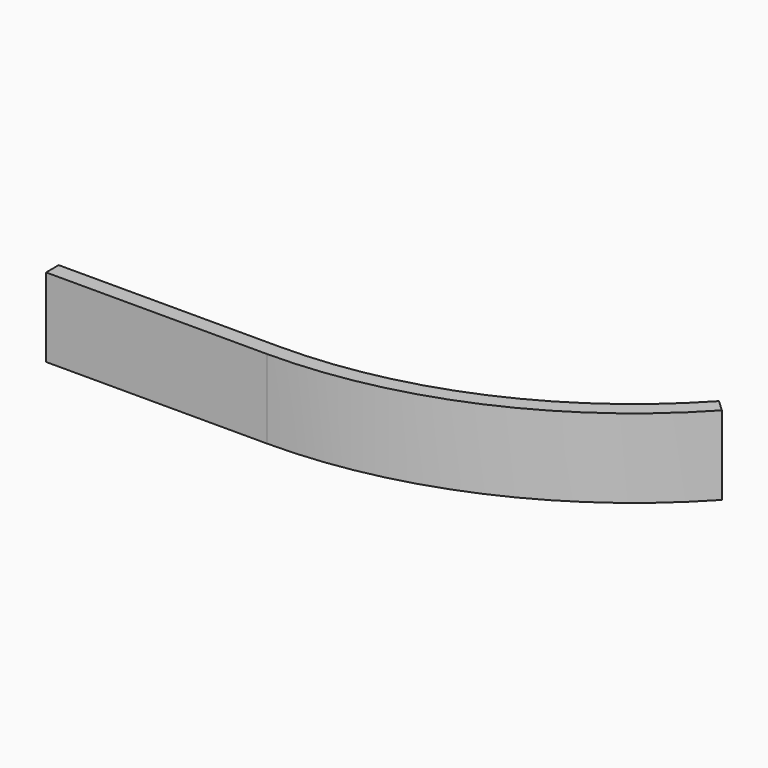
from build123d import *

# Parameters (mm, degrees)
F1_W = 1
F1_H = 5


with BuildPart() as f2:
    # F2: sweep along a path in F0
    with BuildLine(Plane.XY) as f2_path:
        Line((0, 0), (14, 0))
        ThreePointArc((14, 0), (25.46207, 2.398997), (35, 9.193267))
    # F1 (on Right) → F2 (sweep)
    with BuildSketch(Plane.YZ):
        Rectangle(F1_W, F1_H)
    sweep(path=f2_path.line)


solid = f2.part
